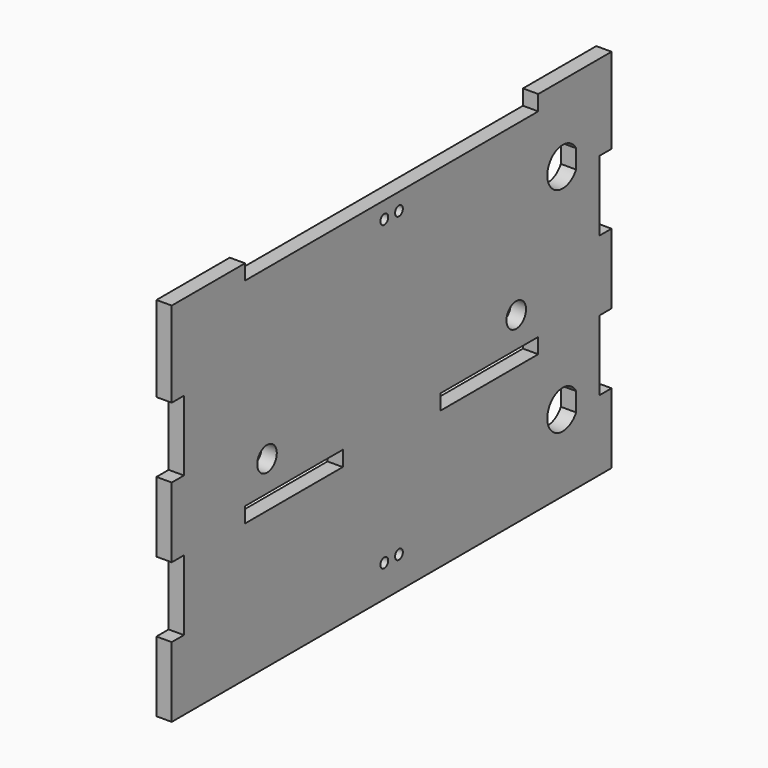
from build123d import *

# Parameters (mm, degrees)
F0_R     = 1.6
F0_W     = 40
F0_H     = 5
F4_DEPTH = 5
F1_R     = 4
F5_DEPTH = 5


with BuildPart() as f4:
    # F0 (on Right) → F4 (new body)
    with BuildSketch(Plane.YZ):
        Polygon((90, 32), (90, 60), (60, 60), (60, 55), (-60, 55), (-60, 60), (-90, 60), (-90, 32), (-85, 32), (-85, 31.356627), (-85, 9), (-90, 9), (-90, 8.356627), (-90, -14), (-85, -14), (-85, -37), (-90, -37), (-90, -60), (90, -60), (90, -37), (85, -37), (85, -24.110864), (85, -14), (90, -14), (90, 9), (85, 9), (85, 32), align=None)
        with Locations((-3, -49.5)):
            Circle(F0_R, mode=Mode.SUBTRACT)
        with Locations((-40, -12.5)):
            Rectangle(F0_W, F0_H, mode=Mode.SUBTRACT)
        with Locations((3, -49.5)):
            Circle(F0_R, mode=Mode.SUBTRACT)
        with Locations((40, -12.5)):
            Rectangle(F0_W, F0_H, mode=Mode.SUBTRACT)
        with Locations((-3, 49.5)):
            Circle(F0_R, mode=Mode.SUBTRACT)
        with Locations((3, 49.5)):
            Circle(F0_R, mode=Mode.SUBTRACT)
    extrude(amount=F4_DEPTH)

    # F1 (on face) + F2 (on face) + F3 (on face) → F5 (cut)
    with BuildSketch(Plane.YZ):
        with Locations((-51, 0)):
            Circle(F1_R)
        with Locations((51, 0)):
            Circle(F1_R)
    with BuildSketch(Plane.YZ):
        with BuildLine():
            Line((75.5, 31.927542), (75.5, 38.072458))
            ThreePointArc((75.5, 38.072458), (63.7, 35), (75.5, 31.927542))
        make_face()
    with BuildSketch(Plane.YZ):
        with BuildLine():
            Line((75.5, -38.072458), (75.5, -31.927542))
            ThreePointArc((75.5, -31.927542), (63.7, -35), (75.5, -38.072458))
        make_face()
    extrude(amount=F5_DEPTH, mode=Mode.SUBTRACT)


solid = f4.part
